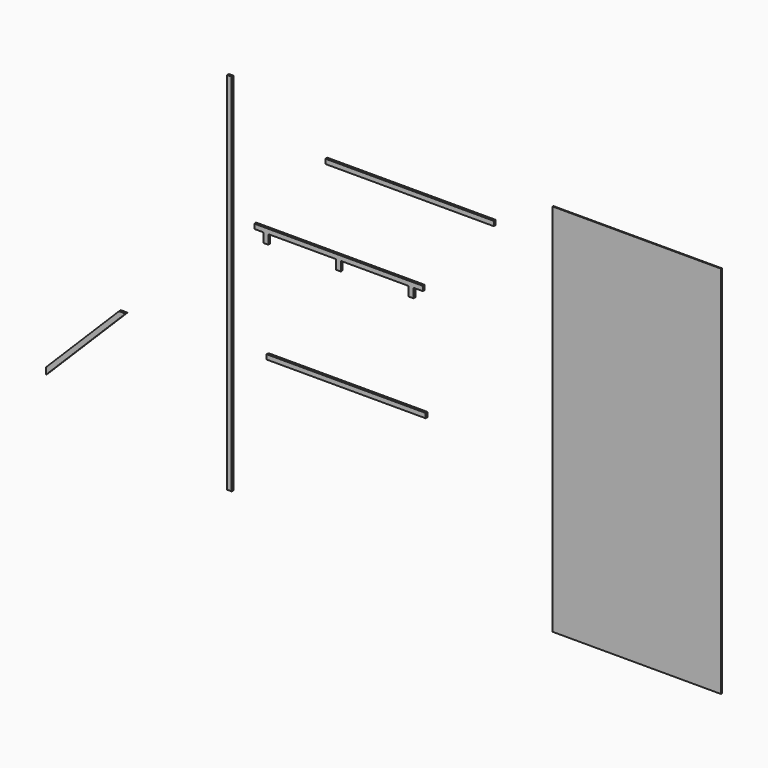
from build123d import *

# Parameters (mm, degrees)
F0_W      = 50
F0_H      = 3900
F1_DEPTH  = 25
F2_W      = 1800
F2_H      = 50
F3_DEPTH  = 25
F5_DEPTH  = 25
F6_W      = 1700
F6_H      = 50
F7_DEPTH  = 25
F8_W      = 1800
F8_H      = 4000
F9_DEPTH  = 10
F11_DEPTH = 25


with BuildPart() as f1:
    # F0 (on Front) → F1 (new body)
    with BuildSketch(Plane.XZ):
        with Locations((-77.442256, 1878.476803)):
            Rectangle(F0_W, F0_H)
    extrude(amount=F1_DEPTH)


with BuildPart() as f3:
    # F2 (on Front) → F3 (new body)
    with BuildSketch(Plane.XZ):
        with Locations((1847.70999, 3358.303452)):
            Rectangle(F2_W, F2_H)
    extrude(amount=F3_DEPTH)


with BuildPart() as f5:
    # F4 (on Front) → F5 (new body)
    with BuildSketch(Plane.XZ):
        Polygon((1989.142323, 2525.724077), (189.142323, 2525.724077), (189.142323, 2475.724077), (289.142323, 2475.724077), (289.142323, 2375.724077), (339.142323, 2375.724077), (339.142323, 2475.724077), (1064.142323, 2475.724077), (1064.142323, 2375.724077), (1114.142323, 2375.724077), (1114.142323, 2475.724077), (1839.142323, 2475.724077), (1839.142323, 2375.724077), (1889.142323, 2375.724077), (1889.142323, 2475.724077), (1989.142323, 2475.724077), align=None)
    extrude(amount=F5_DEPTH)


with BuildPart() as f7:
    # F6 (on Front) → F7 (new body)
    with BuildSketch(Plane.XZ):
        with Locations((1170.937037, 1315.197134)):
            Rectangle(F6_W, F6_H)
    extrude(amount=F7_DEPTH)


with BuildPart() as f9:
    # F8 (on Front) → F9 (new body)
    with BuildSketch(Plane.XZ):
        with Locations((4265.009546, 1713.356882)):
            Rectangle(F8_W, F8_H)
    extrude(amount=F9_DEPTH)


with BuildPart() as f11:
    # F10 (on Front) → F11 (new body)
    with BuildSketch(Plane.XZ):
        Polygon((-2034.65724, 381.959915), (-1184.65724, 1231.959915), (-1255.367918, 1231.959915), (-2034.65724, 452.670593), align=None)
    extrude(amount=F11_DEPTH)


solid = Compound([f1.part, f3.part, f5.part, f7.part, f9.part, f11.part])
